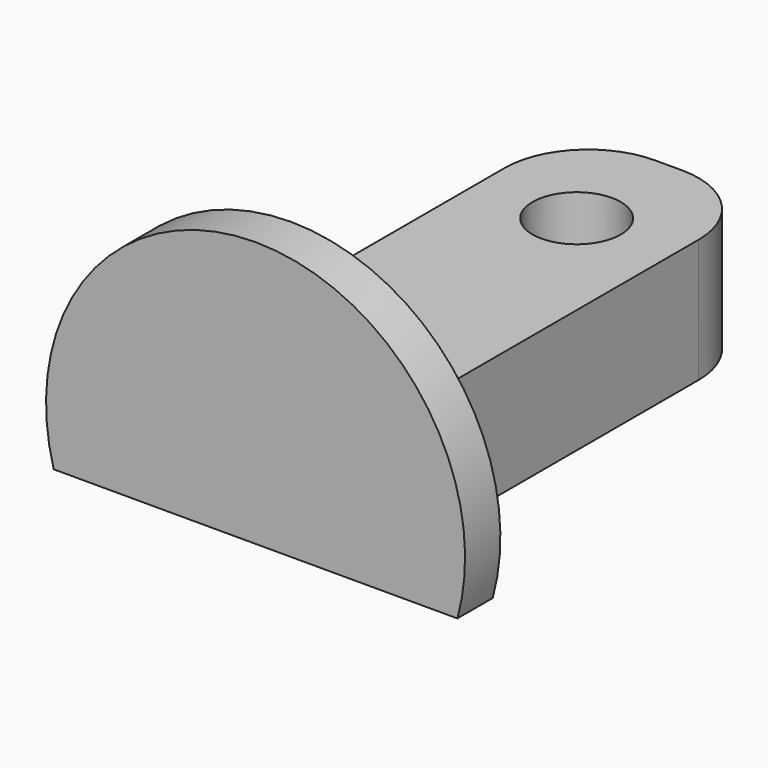
from build123d import *

# Parameters (mm, degrees)
F0_W          = 8.8
F0_H          = 20
F0_R          = 2
F1_DEPTH      = 2.8
F1_DEPTH_BACK = 2.8
F2_W          = 8.8
F2_H          = 5.6
F3_DEPTH      = 1.4
F4_START      = 1.4
F4_DEPTH      = 2
F5_R          = 3.7903152929


with BuildPart() as f1:
    # F0 (on Top) → F1 (new body, two sides)
    with BuildSketch(Plane.XY) as f1_sk:
        Rectangle(F0_W, F0_H)
        with Locations((0, 4.8)):
            Circle(F0_R, mode=Mode.SUBTRACT)
    extrude(amount=F1_DEPTH)
    extrude(f1_sk.sketch, amount=-F1_DEPTH_BACK)

    # F2 (on face) → F3 (join)
    with BuildSketch(Plane.XZ.offset(10)):
        with BuildLine():
            Line((4.4, -2.8), (5.2114805567, -2.8))
            ThreePointArc((5.2114805567, -2.8), (0, 5.5456768073), (-5.2114805567, -2.8))
            Line((-5.2114805567, -2.8), (-4.4, -2.8))
            Line((-4.4, -2.8), (-4.4, 2.8))
            Line((-4.4, 2.8), (4.4, 2.8))
            Line((4.4, 2.8), (4.4, -2.8))
        make_face()
        Rectangle(F2_W, F2_H)
        Rectangle(F2_W, F2_H)
    extrude(amount=F3_DEPTH)

    # F2 (on face) → F4 (join)
    with BuildSketch(Plane.XZ.offset(10).offset(F4_START)):
        Rectangle(F2_W, F2_H)
        with BuildLine():
            Line((4.4, -2.8), (5.2114805567, -2.8))
            ThreePointArc((5.2114805567, -2.8), (0, 5.5456768073), (-5.2114805567, -2.8))
            Line((-5.2114805567, -2.8), (-4.4, -2.8))
            Line((-4.4, -2.8), (-4.4, 2.8))
            Line((-4.4, 2.8), (4.4, 2.8))
            Line((4.4, 2.8), (4.4, -2.8))
        make_face()
        with BuildLine():
            ThreePointArc((-5.2114805567, -2.8), (0, 5.5456768073), (5.2114805567, -2.8))
            Line((5.2114805567, -2.8), (9.1525695623, -2.8))
            ThreePointArc((9.1525695623, -2.8), (0, 9.2456768073), (-9.1525695623, -2.8))
            Line((-9.1525695623, -2.8), (-5.2114805567, -2.8))
        make_face()
    extrude(amount=F4_DEPTH)

    # F5
    f5_edges = [f1.edges().sort_by_distance(p)[0] for p in [
        (4.4, 10, 0),
        (-4.4, 10, 0),
    ]]
    fillet(f5_edges, radius=F5_R)


solid = f1.part
